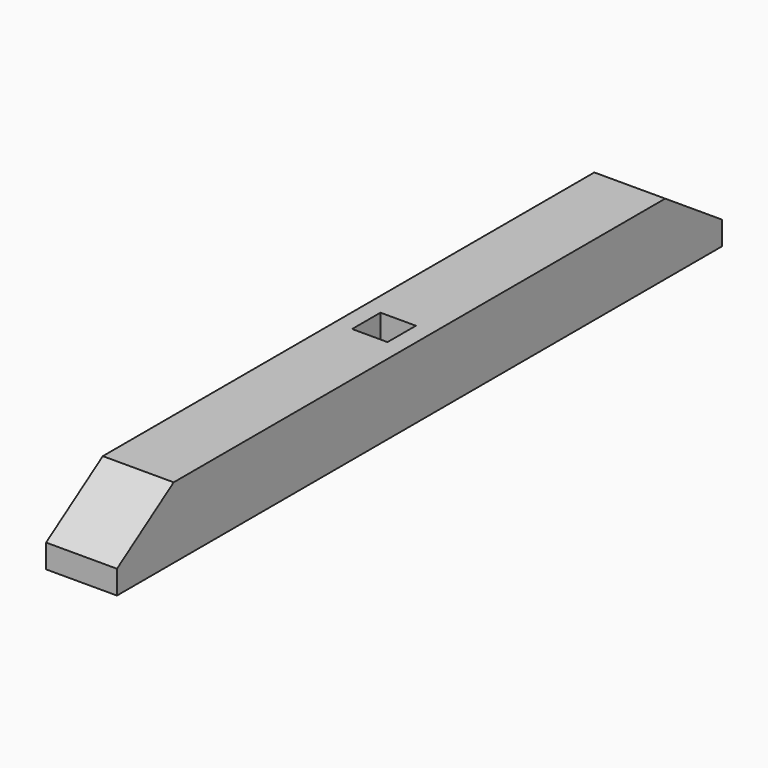
from build123d import *

# Parameters (mm, degrees)
F1_DEPTH = 76.2
F2_W     = 38.1
F2_H     = 19.05
F3_DEPTH = 38.1


with BuildPart() as f1:
    # F0 (on Right) → F1 (new body)
    with BuildSketch(Plane.YZ):
        Polygon((406.4, -12.7), (330.2, 38.1), (-330.2, 38.1), (-406.4, -12.7), (-406.4, -38.1), (-292.1, -38.1), (292.1, -38.1), (406.4, -38.1), align=None)
    extrude(amount=F1_DEPTH)

    # F2 (on face) → F3 (cut)
    with BuildSketch(Plane.XY.offset(38.1)):
        with Locations((38.1, 9.525)):
            Rectangle(F2_W, F2_H)
        with Locations((38.1, -9.525)):
            Rectangle(F2_W, F2_H)
    extrude(amount=-F3_DEPTH, mode=Mode.SUBTRACT)


solid = f1.part
